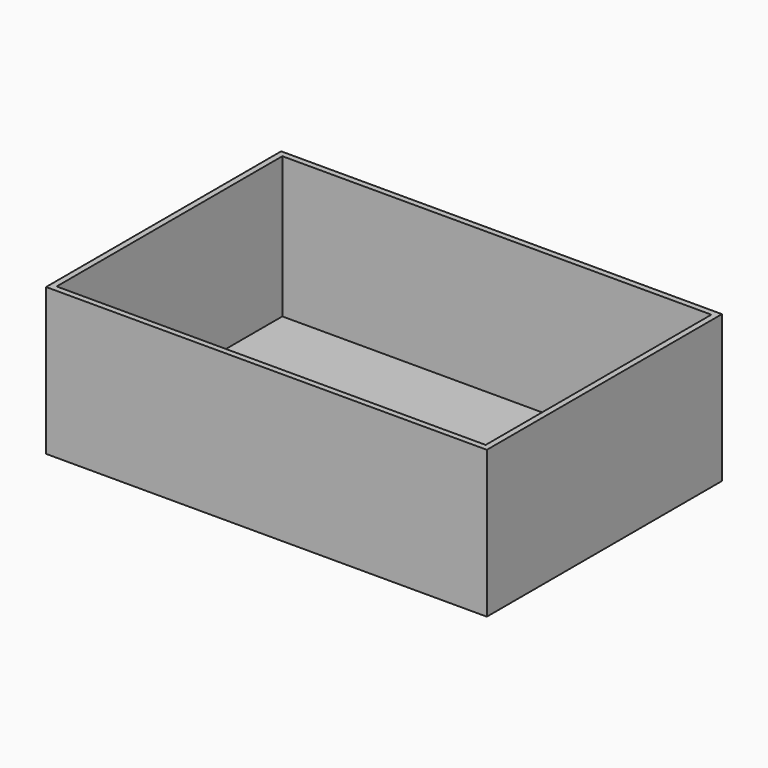
from build123d import *

# Parameters (mm, degrees)
F0_W     = 300
F0_H     = 200
F1_DEPTH = 50
F2_T     = -4


with BuildPart() as f1:
    # F0 (on Top) → F1 (new body, symmetric)
    with BuildSketch(Plane.XY):
        Rectangle(F0_W, F0_H)
    extrude(amount=F1_DEPTH, both=True)

    # F2
    f2_openings = [f1.faces().sort_by_distance(p)[0] for p in [
        (0, 0, 50),
    ]]
    offset(amount=F2_T, openings=f2_openings)


solid = f1.part
